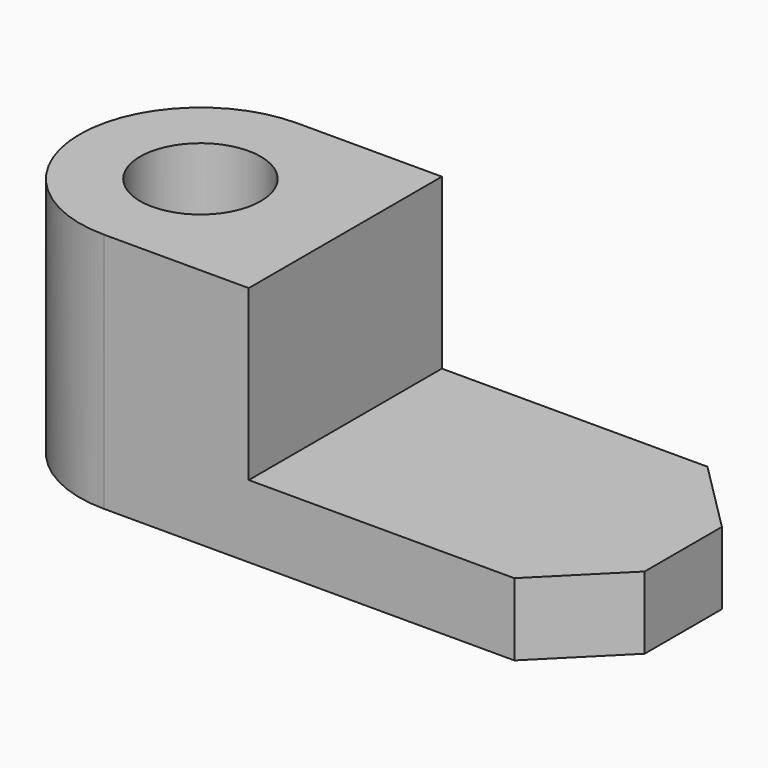
from build123d import *

# Parameters (mm, degrees)
F0_R     = 7.5
F1_DEPTH = 9
F2_R     = 7.5
F3_DEPTH = 21


with BuildPart() as f1:
    # F0 (on Top) → F1 (new body)
    with BuildSketch(Plane.XY):
        with BuildLine():
            ThreePointArc((0, 30), (-15, 15), (0, 0))
            Line((0, 0), (51, 0))
            Line((51, 0), (60, 9))
            Line((60, 9), (60, 21))
            Line((60, 21), (51, 30))
            Line((51, 30), (0, 30))
        make_face()
        with Locations((0, 15)):
            Circle(F0_R, mode=Mode.SUBTRACT)
    extrude(amount=F1_DEPTH)

    # F2 (on face) → F3 (join)
    with BuildSketch(Plane.XY.offset(9)):
        with BuildLine():
            Line((18, 0), (18, 30))
            Line((18, 30), (0, 30))
            ThreePointArc((0, 30), (-15, 15), (0, 0))
            Line((0, 0), (18, 0))
        make_face()
        with Locations((0, 15)):
            Circle(F2_R, mode=Mode.SUBTRACT)
    extrude(amount=F3_DEPTH)


solid = f1.part
